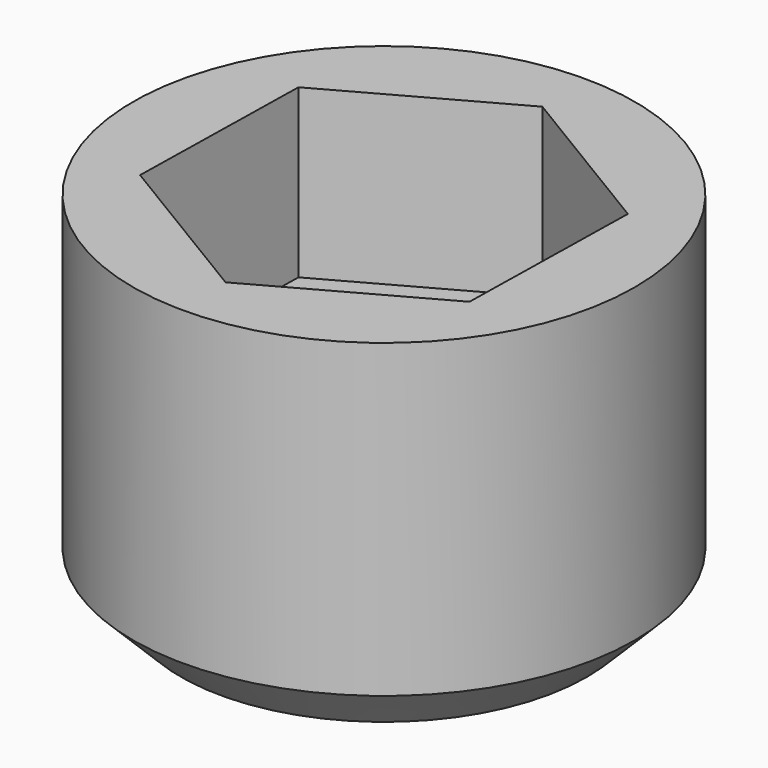
from build123d import *

# Parameters (mm, degrees)
SKETCH_R        = 10.5
PAD_DEPTH       = 15
POCKET_DEPTH    = 7
SKETCH002_R     = 5.5
POCKET001_DEPTH = 6.5
CHAMFER_SIZE    = 2


with BuildPart() as part:
    # Sketch → Pad (new body)
    with BuildSketch(Plane.XY):
        Circle(SKETCH_R)
    extrude(amount=PAD_DEPTH)

    # Sketch001 (on Face3 of Pad) → Pocket (cut)
    with BuildSketch(Plane.XY.offset(15)):
        Polygon((6.920429, -4.179273), (7.079571, 3.903631), (0.159142, 8.082904), (-6.920429, 4.179273), (-7.079571, -3.903631), (-0.159142, -8.082904), align=None)
    extrude(amount=-POCKET_DEPTH, mode=Mode.SUBTRACT)

    # Sketch002 (on Face10 of Pocket) → Pocket001 (cut)
    with BuildSketch(Plane.XY.offset(8)):
        Circle(SKETCH002_R)
    extrude(amount=-POCKET001_DEPTH, mode=Mode.SUBTRACT)

    # Chamfer
    chamfer_edges = [part.edges().sort_by_distance(p)[0] for p in [
        (-10.5, 0, 0),
    ]]
    chamfer(chamfer_edges, length=CHAMFER_SIZE)


solid = part.part
